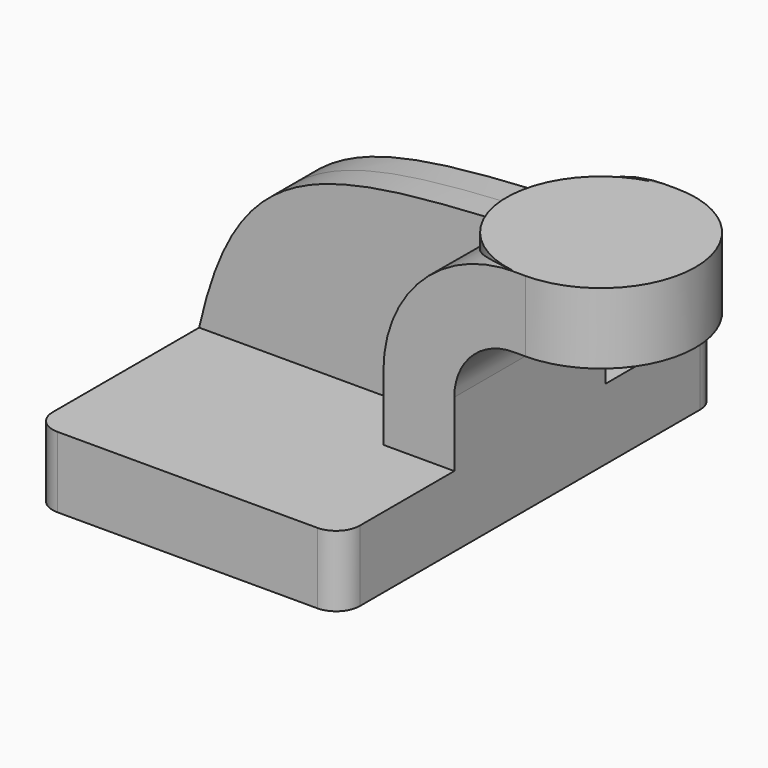
from build123d import *

# Parameters (mm, degrees)
F1_DEPTH = 25.4
F2_DEPTH = 63.5
F3_DEPTH = 7.9375
F0_W     = 25.4
F0_H     = 19.05
F5_R     = 6.35


with BuildPart() as f1:
    # F0 (on Front) → F1 (new body, symmetric)
    with BuildSketch(Plane.XZ):
        with BuildLine():
            Line((22.225, 9.525), (41.275, 9.525))
            Line((41.275, 9.525), (41.275, 27.001301))
            ThreePointArc((41.275, 27.001301), (45.990982, 38.292534), (57.336976, 42.8752))
            Line((57.336976, 42.8752), (60.402433, 42.8752))
            Line((60.402433, 42.8752), (60.402433, 61.9252))
            Line((60.402433, 61.9252), (56.872667, 61.9252))
            add(Edge.make_bspline(
                [(53.902854, 61.775022), (54.883193, 61.824411), (55.873098, 61.874398), (56.872667, 61.9252)],
                knots=[109.476796, 109.476796, 109.476796, 109.476796, 111.25981, 111.25981, 111.25981, 111.25981], degree=3))
            ThreePointArc((53.902854, 61.775022), (31.331768, 50.520964), (22.225, 27.001301))
            Line((22.225, 27.001301), (22.225, 9.525))
        make_face()
    extrude(amount=F1_DEPTH, both=True)

    # F0 (on Front) → F2 (join, symmetric)
    with BuildSketch(Plane.XZ):
        Polygon((-41.275, -9.525), (41.275, -9.525), (41.275, 9.525), (22.225, 9.525), (-41.275, 9.525), align=None)
    extrude(amount=F2_DEPTH, both=True)

    # F0 (on Front) → F3 (join, symmetric)
    with BuildSketch(Plane.XZ):
        with BuildLine():
            add(Edge.make_bspline(
                [(-41.275, 9.525), (-30.419521, 57.966245), (-6.289769, 58.742549), (53.902854, 61.775022)],
                knots=[0, 0, 0, 0, 109.476796, 109.476796, 109.476796, 109.476796], degree=3))
            Line((-41.275, 9.525), (22.225, 9.525))
            Line((22.225, 9.525), (22.225, 27.001301))
            ThreePointArc((22.225, 27.001301), (31.331768, 50.520964), (53.902854, 61.775022))
        make_face()
    extrude(amount=F3_DEPTH, both=True)

    # F0 (on Front) → F4 (revolve)
    with BuildSketch(Plane.XZ):
        with Locations((73.102433, 52.4002)):
            Rectangle(F0_W, F0_H)
    revolve(axis=Axis((60.402433, 0, 52.3875), (0, 0, 1)))

    # F5
    f5_edges = [f1.edges().sort_by_distance(p)[0] for p in [
        (41.275, -63.5, 0),
        (-41.275, -63.5, 0),
        (41.275, 63.5, 0),
        (-41.275, 63.5, 0),
    ]]
    fillet(f5_edges, radius=F5_R)


solid = f1.part
